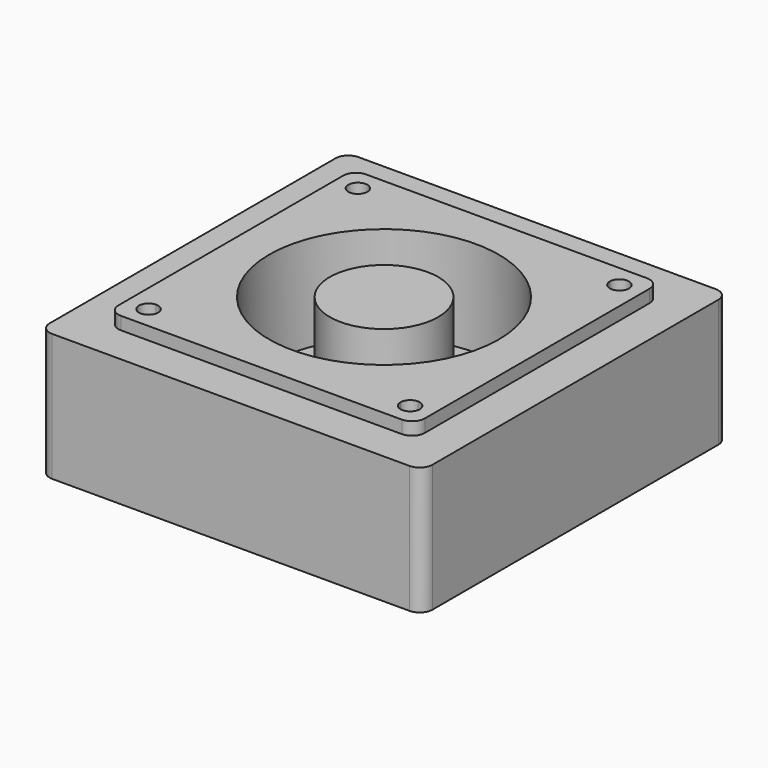
from build123d import *

# Parameters (mm, degrees)
F0_W     = 60
F0_H     = 60
F1_DEPTH = 20
F2_W     = 48
F2_H     = 48
F3_DEPTH = 2
F5_DEPTH = 2
F6_R     = 18
F7_DEPTH = 15
F8_R     = 8.5
F9_DEPTH = 15
F10_R    = 2


with BuildPart() as f1:
    # F0 (on Top) → F1 (new body)
    with BuildSketch(Plane.XY):
        with Locations((14.998458, 30.737774)):
            Rectangle(F0_W, F0_H)
    extrude(amount=F1_DEPTH)

    # F2 (on face) → F3 (join)
    with BuildSketch(Plane.XY.offset(20)):
        with Locations((14.998458, 30.737774)):
            Rectangle(F2_W, F2_H)
    extrude(amount=F3_DEPTH)

    # F4 (on face) → F5 (cut)
    with BuildSketch(Plane.XY.offset(22)):
        with BuildLine():
            Line((-5.501542, 49.737774), (-5.501542, 51.237774))
            Line((-5.501542, 51.237774), (-4.001542, 51.237774))
            ThreePointArc((-4.001542, 51.237774), (-6.562202, 52.298434), (-5.501542, 49.737774))
        make_face()
        with BuildLine():
            Line((-4.001542, 51.237774), (-5.501542, 51.237774))
            Line((-5.501542, 51.237774), (-5.501542, 49.737774))
            ThreePointArc((-5.501542, 49.737774), (-4.440882, 50.177114), (-4.001542, 51.237774))
        make_face()
        with BuildLine():
            Line((35.498458, 51.237774), (33.998458, 51.237774))
            ThreePointArc((33.998458, 51.237774), (34.437798, 50.177114), (35.498458, 49.737774))
            Line((35.498458, 49.737774), (35.498458, 51.237774))
        make_face()
        with BuildLine():
            ThreePointArc((35.498458, 11.737774), (34.437798, 11.298434), (33.998458, 10.237774))
            Line((33.998458, 10.237774), (35.498458, 10.237774))
            Line((35.498458, 10.237774), (35.498458, 11.737774))
        make_face()
        with BuildLine():
            ThreePointArc((-4.001542, 10.237774), (-4.440882, 11.298434), (-5.501542, 11.737774))
            Line((-5.501542, 11.737774), (-5.501542, 10.237774))
            Line((-5.501542, 10.237774), (-4.001542, 10.237774))
        make_face()
        with BuildLine():
            Line((-5.501542, 10.237774), (-5.501542, 11.737774))
            ThreePointArc((-5.501542, 11.737774), (-6.562202, 9.177114), (-4.001542, 10.237774))
            Line((-4.001542, 10.237774), (-5.501542, 10.237774))
        make_face()
        with BuildLine():
            Line((35.498458, 10.237774), (33.998458, 10.237774))
            ThreePointArc((33.998458, 10.237774), (35.498458, 8.737774), (36.998458, 10.237774))
            ThreePointArc((36.998458, 10.237774), (36.559118, 11.298434), (35.498458, 11.737774))
            Line((35.498458, 11.737774), (35.498458, 10.237774))
        make_face()
        with BuildLine():
            ThreePointArc((36.998458, 51.237774), (35.498458, 52.737774), (33.998458, 51.237774))
            Line((33.998458, 51.237774), (35.498458, 51.237774))
            Line((35.498458, 51.237774), (35.498458, 49.737774))
            ThreePointArc((35.498458, 49.737774), (36.559118, 50.177114), (36.998458, 51.237774))
        make_face()
    extrude(amount=-F5_DEPTH, mode=Mode.SUBTRACT)

    # F6 (on face) → F7 (cut)
    with BuildSketch(Plane.XY.offset(22)):
        with Locations((14.998458, 30.737774)):
            Circle(F6_R)
    extrude(amount=-F7_DEPTH, mode=Mode.SUBTRACT)

    # F8 (on face) → F9 (join)
    with BuildSketch(Plane.XY.offset(7)):
        with Locations((14.998458, 30.737774)):
            Circle(F8_R)
    extrude(amount=F9_DEPTH)

    # F10
    f10_edges = [f1.edges().sort_by_distance(p)[0] for p in [
        (44.998458, 60.737774, 10),
        (44.998458, 0.737774, 10),
        (-15.001542, 0.737774, 10),
        (-15.001542, 60.737774, 10),
        (-9.001542, 54.737774, 21),
        (-9.001542, 6.737774, 21),
        (38.998458, 6.737774, 21),
        (38.998458, 54.737774, 21),
    ]]
    fillet(f10_edges, radius=F10_R)


solid = f1.part
